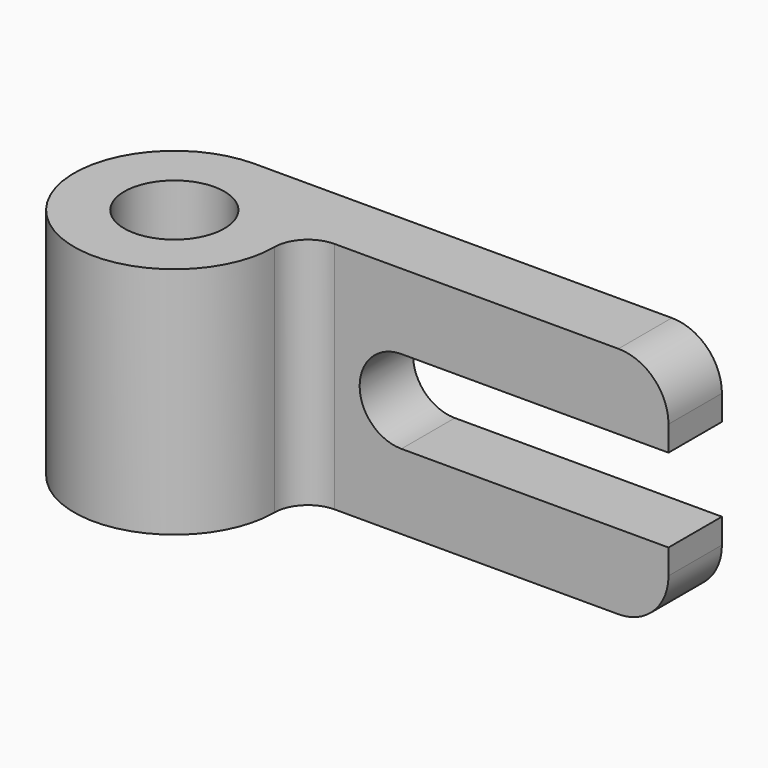
from build123d import *

# Parameters (mm, degrees)
F0_R     = 9.525
F1_DEPTH = 44.45
F3_DEPTH = 25.4
F4_ANGLE = -90


with BuildPart() as f1:
    # F0 (on Top) → F1 (new body)
    with BuildSketch(Plane.XY):
        with BuildLine():
            Line((-12.1103564769, -65.08749924), (-12.1103564769, 23.81250076))
            ThreePointArc((-12.1103564769, 23.81250076), (-44.6307406585, 37.2828849416), (-31.1603564769, 4.76250076))
            ThreePointArc((-31.1603564769, 4.76250076), (-26.6702284164, 2.9026288205), (-24.8103564769, -1.58749924))
            Line((-24.8103564769, -1.58749924), (-24.8103564769, -65.08749924))
            Line((-24.8103564769, -65.08749924), (-12.1103564769, -65.08749924))
        make_face()
        with Locations((-31.1603564769, 23.81250076)):
            Circle(F0_R, mode=Mode.SUBTRACT)
    extrude(amount=F1_DEPTH)

    # F2 (on face) → F3 (cut)
    with BuildSketch(Plane(origin=(-24.8103564769, 0, 0), x_dir=(0, -1, 0), z_dir=(-1, 0, 0))):
        with BuildLine():
            Line((14.28749924, 14.2748), (65.08749924, 14.2748))
            Line((65.08749924, 14.2748), (65.08749924, 30.1498))
            Line((65.08749924, 30.1498), (14.28749924, 30.1498))
            ThreePointArc((14.28749924, 30.1498), (6.34999924, 22.2123), (14.28749924, 14.2748))
        make_face()
        with BuildLine():
            Line((65.08749924, 44.45), (55.56249924, 44.45))
            ThreePointArc((55.56249924, 44.45), (62.2976913308, 41.6601920908), (65.08749924, 34.925))
            Line((65.08749924, 34.925), (65.08749924, 44.45))
        make_face()
        with BuildLine():
            ThreePointArc((65.08749924, 9.525), (62.2976913308, 2.7898079092), (55.56249924, 0))
            Line((55.56249924, 0), (65.08749924, 0))
            Line((65.08749924, 0), (65.08749924, 9.525))
        make_face()
    extrude(amount=-F3_DEPTH, mode=Mode.SUBTRACT)


with BuildPart() as f1_1:
    # F4: moved
    add(f1.part.rotate(Axis((-12.1103564769, 23.81250076, 22.225), (0, 0, -1)), F4_ANGLE))


solid = f1_1.part
